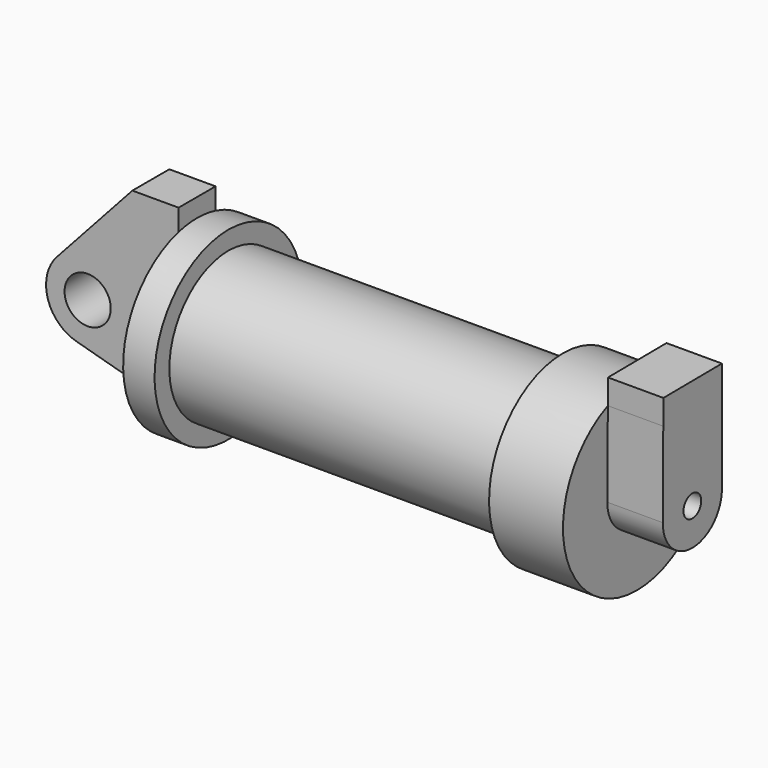
from build123d import *

# Parameters (mm, degrees)
F0_W     = 5.842
F0_H     = 12.7
F0_R     = 3.175
F2_DEPTH = 3.175
F3_R     = 1.524
F4_DEPTH = 7.62


with BuildPart() as f1:
    # F0 (on Front) → F1 (revolve)
    with BuildSketch(Plane.XZ):
        Polygon((5.842, 12.7), (5.842, 0), (66.294, 0), (66.294, 12.7), (56.134, 12.7), (56.134, 10.16), (10.16, 10.16), (10.16, 12.7), align=None)
    revolve(axis=Axis((33.147, 0, 0), (-1, 0, 0)))

    # F0 (on Front) → F2 (join, symmetric)
    with BuildSketch(Plane.XZ):
        with Locations((2.921, 6.35)):
            Rectangle(F0_W, F0_H)
        with BuildLine():
            Line((-0.9398, 0), (0, 0))
            Line((0, 0), (0, 12.7))
            Line((0, 12.7), (5.842, 12.7))
            Line((5.842, 12.7), (5.842, 15.24))
            Line((5.842, 15.24), (-0.508, 15.24))
            Line((-0.508, 15.24), (-10.8806298187, 3.8475430269))
            ThreePointArc((-10.8806298187, 3.8475430269), (-4.5919612295, 5.3297205562), (-0.9398, 0))
        make_face()
        with BuildLine():
            ThreePointArc((-8.1826630726, -5.5069827884), (-3.1957909266, -4.5493385486), (-0.9398, 0))
            ThreePointArc((-0.9398, 0), (-4.5919612295, 5.3297205562), (-10.8806298187, 3.8475430269))
            ThreePointArc((-10.8806298187, 3.8475430269), (-12.1459778134, -1.5837270034), (-8.1826630726, -5.5069827884))
        make_face()
        with Locations((-6.6548, 0)):
            Circle(F0_R, mode=Mode.SUBTRACT)
        with BuildLine():
            Line((5.842, 0), (0, 0))
            Line((0, 0), (-0.9398, 0))
            ThreePointArc((-0.9398, 0), (-3.1957909266, -4.5493385486), (-8.1826630726, -5.5069827884))
            Line((-8.1826630726, -5.5069827884), (5.842, -9.398))
            Line((5.842, -9.398), (5.842, 0))
        make_face()
    extrude(amount=F2_DEPTH, both=True)

    # F3 (on face) → F4 (join)
    with BuildSketch(Plane.YZ.offset(66.294)):
        with BuildLine():
            Line((-4.9956931261, 11.6761744673), (-5.0798671661, 0.0367365628))
            ThreePointArc((-5.0798671661, 0.0367365628), (-0.0197170397, 5.0799617359), (5.0794289447, 0.0761682073))
            Line((5.0794289447, 0.0761682073), (5.0794289447, 11.6399914775))
            ThreePointArc((5.0794289447, 11.6399914775), (0.0456094729, 12.6999181012), (-4.9956931261, 11.6761744673))
        make_face()
        with BuildLine():
            ThreePointArc((5.0794289447, 0.0761682073), (-0.0197170397, 5.0799617359), (-5.0798671661, 0.0367365628))
            ThreePointArc((-5.0798671661, 0.0367365628), (-0.0564528103, -5.0796863171), (5.0794289447, -0.0761682073))
            Line((5.0794289447, -0.0761682073), (5.0794289447, 0.0761682073))
        make_face()
        Circle(F3_R, mode=Mode.SUBTRACT)
        with BuildLine():
            Line((-4.9710357562, 15.0857521221), (-4.9956931261, 11.6761744673))
            ThreePointArc((-4.9956931261, 11.6761744673), (0.0456094729, 12.6999181012), (5.0794289447, 11.6399914775))
            Line((5.0794289447, 11.6399914775), (5.0794289447, 15.1638317927))
            Line((5.0794289447, 15.1638317927), (-4.9710357562, 15.0857521221))
        make_face()
    extrude(amount=F4_DEPTH)


solid = f1.part
